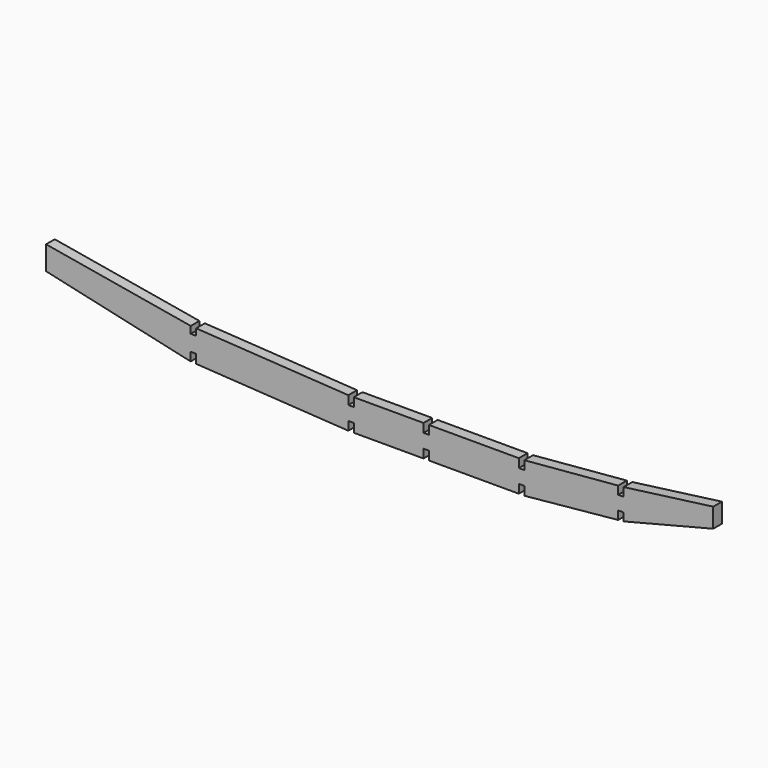
from build123d import *

# Parameters (mm, degrees)
F1_DEPTH = 6.35


with BuildPart() as f1:
    # F0 (on Front) → F1 (new body)
    with BuildSketch(Plane.XZ):
        Polygon((-135.90005, 38.716007), (-220.352262, 53.212889), (-220.352262, 39.346308), (-135.90005, 20.437343), (-135.90005, 25.42473), (-132.72505, 25.42473), (-132.72505, 20.241606), (-43.884959, 14.764653), (-43.884959, 19.270245), (-43.884959, 19.844653), (-40.709959, 19.844653), (-40.709959, 19.270245), (-40.709959, 14.764653), (0, 14.764653), (0, 19.844653), (3.175, 19.844653), (3.175, 14.764653), (55.669224, 14.764653), (55.669224, 19.844653), (58.844224, 19.844653), (58.844224, 14.764653), (113.651348, 20.126716), (113.651348, 25.054362), (116.826348, 25.054362), (116.826348, 20.437343), (169.136286, 33.673622), (169.136286, 45.019001), (116.826348, 38.08571), (116.826348, 33.067703), (113.651348, 33.067703), (113.651348, 37.809598), (58.844224, 33.043321), (58.844224, 27.963321), (55.669224, 27.963321), (55.669224, 33.043321), (3.175, 33.043321), (3.175, 27.963321), (0, 27.963321), (0, 33.043321), (-40.709959, 33.043321), (-40.709959, 27.963321), (-43.884959, 27.963321), (-43.884959, 33.043321), (-132.72505, 38.52027), (-132.72505, 34.656454), (-135.90005, 34.656454), align=None)
    extrude(amount=F1_DEPTH)


solid = f1.part
